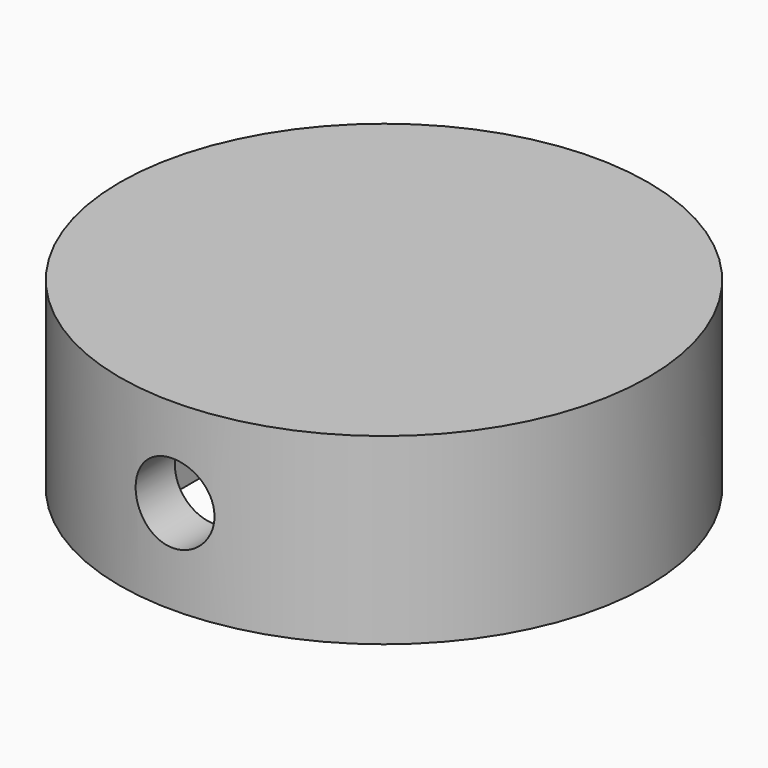
from build123d import *

# Parameters (mm, degrees)
F0_R     = 36.593619
F1_DEPTH = 25.4
F3_R     = 5.460111
F4_DEPTH = 76.708
F5_W     = 35.531597
F5_H     = 58.026424
F6_DEPTH = 22.098


with BuildPart() as f1:
    # F0 (on Top) → F1 (new body)
    with BuildSketch(Plane.XY):
        Circle(F0_R)
    extrude(amount=F1_DEPTH)

    # F3 (on offset) → F4 (cut)
    with BuildSketch(Plane.XZ.offset(-37.084)):
        with Locations((0, 13.036774)):
            Circle(F3_R)
    extrude(amount=F4_DEPTH, mode=Mode.SUBTRACT)

    # F5 (on Top) → F6 (cut)
    with BuildSketch(Plane.XY):
        with Locations((0.766869, -0.383434)):
            Rectangle(F5_W, F5_H)
    extrude(amount=F6_DEPTH, mode=Mode.SUBTRACT)


solid = f1.part
